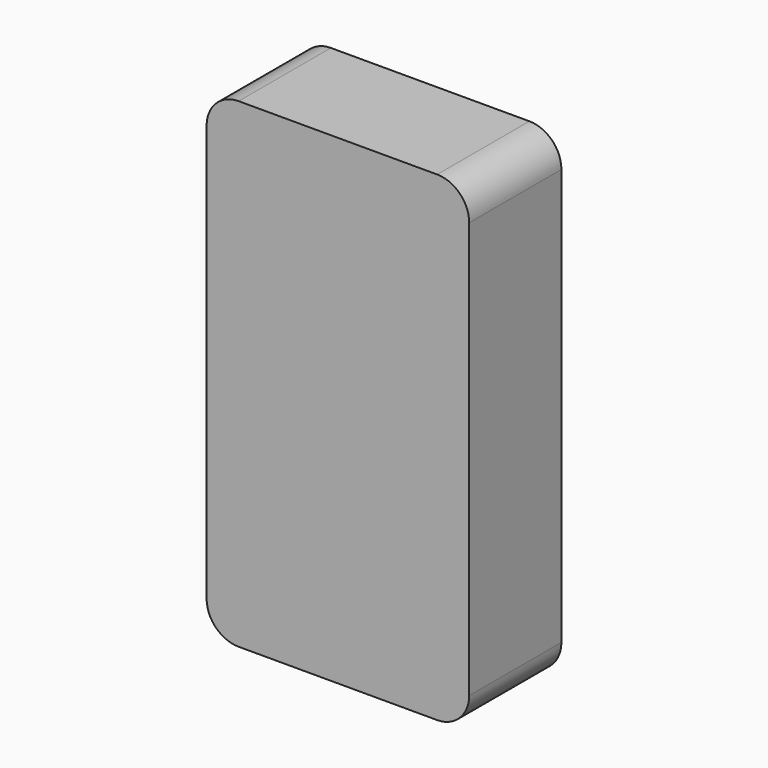
from build123d import *

# Parameters (mm, degrees)
BOX043_W                    = 5
BOX043_H                    = 5
BOX043_DEPTH                = 5
CYLINDER081_R               = 1.6
CYLINDER081_DEPTH           = 12
CYLINDER080_R               = 3.5
CYLINDER080_DEPTH           = 12
CYLINDER075_R               = 2.8
CYLINDER075_DEPTH           = 10
CYLINDER074_R               = 5.5
CYLINDER074_DEPTH           = 22
CYLINDER074_ROLL_ANGLE      = 90.312904
CYLINDER074_PITCH_ANGLE     = -60.355913
CYLINDER074_PLACEMENT_ANGLE = 179.461903
CYLINDER077_R               = 2.8
CYLINDER077_DEPTH           = 10
CYLINDER076_R               = 5.5
CYLINDER076_DEPTH           = 22
CYLINDER076_ROLL_ANGLE      = 90
CYLINDER076_PITCH_ANGLE     = -60
CYLINDER076_PLACEMENT_ANGLE = -180
CYLINDER079_R               = 2.8
CYLINDER079_DEPTH           = 10
CYLINDER078_R               = 5.5
CYLINDER078_DEPTH           = 22
CYLINDER078_ROLL_ANGLE      = 90
CYLINDER078_PITCH_ANGLE     = -60
CYLINDER078_PLACEMENT_ANGLE = -180
CYLINDER054_R               = 1.6
CYLINDER054_DEPTH           = 12
CYLINDER055_R               = 1.6
CYLINDER055_DEPTH           = 12
CYLINDER056_R               = 1.6
CYLINDER056_DEPTH           = 12
CYLINDER057_R               = 1.6
CYLINDER057_DEPTH           = 12
CYLINDER058_R               = 1.6
CYLINDER058_DEPTH           = 12
CYLINDER059_R               = 1.6
CYLINDER059_DEPTH           = 12
CYLINDER060_R               = 1.6
CYLINDER060_DEPTH           = 12
CYLINDER061_R               = 1.6
CYLINDER061_DEPTH           = 12
CYLINDER062_R               = 3.5
CYLINDER062_DEPTH           = 12
CYLINDER063_R               = 3.5
CYLINDER063_DEPTH           = 12
CYLINDER064_R               = 3.5
CYLINDER064_DEPTH           = 12
CYLINDER065_R               = 3.5
CYLINDER065_DEPTH           = 12
CYLINDER066_R               = 3.5
CYLINDER066_DEPTH           = 12
CYLINDER067_R               = 3.5
CYLINDER067_DEPTH           = 12
CYLINDER068_R               = 3.5
CYLINDER068_DEPTH           = 12
CYLINDER051_R               = 1.57
CYLINDER051_DEPTH           = 6
CYLINDER050_R               = 5.3
CYLINDER050_DEPTH           = 6
CYLINDER052_W               = 5.3
CYLINDER052_H               = 6
CYLINDER052_ANGLE           = 270
CYLINDER053_W               = 5.3
CYLINDER053_H               = 6
CYLINDER053_ANGLE           = 270
CYLINDER045_W               = 10
CYLINDER045_H               = 34
CYLINDER045_ANGLE           = 90
BOX035_W                    = 10
BOX035_H                    = 34
BOX035_DEPTH                = 10
CUT031_PLACEMENT_ANGLE      = 180
CYLINDER046_W               = 10
CYLINDER046_H               = 34
CYLINDER046_ANGLE           = 90
BOX036_W                    = 10
BOX036_H                    = 34
BOX036_DEPTH                = 10
CUT032_PLACEMENT_ANGLE      = 180
CYLINDER047_W               = 10
CYLINDER047_H               = 34
CYLINDER047_ANGLE           = 90
BOX037_W                    = 10
BOX037_H                    = 34
BOX037_DEPTH                = 10
CUT033_PITCH_ANGLE          = -90
CUT033_PLACEMENT_ANGLE      = 180
CYLINDER044_W               = 10
CYLINDER044_H               = 34
CYLINDER044_ANGLE           = 90
BOX033_W                    = 10
BOX033_H                    = 34
BOX033_DEPTH                = 10
CUT030_PITCH_ANGLE          = 90
CUT030_PLACEMENT_ANGLE      = -180
BOX034_W                    = 78
BOX034_H                    = 34
BOX034_DEPTH                = 146
CYLINDER041_W               = 10
CYLINDER041_H               = 36
CYLINDER041_ANGLE           = 90
BOX030_W                    = 10
BOX030_H                    = 36
BOX030_DEPTH                = 10
CUT026_PLACEMENT_ANGLE      = 180
CYLINDER042_W               = 10
CYLINDER042_H               = 36
CYLINDER042_ANGLE           = 90
BOX031_W                    = 10
BOX031_H                    = 36
BOX031_DEPTH                = 10
CUT027_PLACEMENT_ANGLE      = 180
CYLINDER043_W               = 10
CYLINDER043_H               = 36
CYLINDER043_ANGLE           = 90
BOX032_W                    = 10
BOX032_H                    = 36
BOX032_DEPTH                = 10
CUT028_PITCH_ANGLE          = -90
CUT028_PLACEMENT_ANGLE      = -180
CYLINDER040_W               = 10
CYLINDER040_H               = 36
CYLINDER040_ANGLE           = 90
BOX028_W                    = 10
BOX028_H                    = 36
BOX028_DEPTH                = 10
CUT025_PITCH_ANGLE          = 90
CUT025_PLACEMENT_ANGLE      = -180
BOX029_W                    = 82
BOX029_H                    = 36
BOX029_DEPTH                = 150
CUT035_PLACEMENT_ANGLE      = 180
CYLINDER048_R               = 1.57
CYLINDER048_DEPTH           = 6
CYLINDER049_R               = 5.3
CYLINDER049_DEPTH           = 6
CYLINDER069_R               = 3.5
CYLINDER069_DEPTH           = 12
CYLINDER073_R               = 2.8
CYLINDER073_DEPTH           = 10
CYLINDER072_R               = 5.5
CYLINDER072_DEPTH           = 22
CYLINDER072_ROLL_ANGLE      = 90
CYLINDER072_PITCH_ANGLE     = -60
CYLINDER072_PLACEMENT_ANGLE = -180


with BuildPart() as lightcut:
    # Box043 → Box043 (new body)
    with BuildSketch(Plane(origin=(54.5, -16, -6), x_dir=(1, 0, 0), z_dir=(0, 0, 1))):
        with Locations((2.5, 2.5)):
            Rectangle(BOX043_W, BOX043_H)
    extrude(amount=BOX043_DEPTH)


with BuildPart() as m2heatset009:
    # Cylinder081 → Cylinder081 (new body)
    with BuildSketch(Plane(origin=(8, -44, 67.1), x_dir=(1, 0, 0), z_dir=(0, 1, 0))):
        Circle(CYLINDER081_R)
    extrude(amount=CYLINDER081_DEPTH)


with BuildPart() as m2heatset010:
    # Cylinder080 → Cylinder080 (new body)
    with BuildSketch(Plane(origin=(8, -44, 67.1), x_dir=(1, 0, 0), z_dir=(0, 1, 0))):
        Circle(CYLINDER080_R)
    extrude(amount=CYLINDER080_DEPTH)

    # Cut043: cut m2HeatSet009
    add(m2heatset009.part, mode=Mode.SUBTRACT)


with BuildPart() as m4heatsetcut001:
    # Cylinder075 → Cylinder075 (new body)
    with BuildSketch(Plane(origin=(4.5, -32, 141.5), x_dir=(1, 0, 0), z_dir=(0, 1, 0))):
        Circle(CYLINDER075_R)
    extrude(amount=CYLINDER075_DEPTH)


with BuildPart() as m4heatsetholes001:
    # Cylinder074 → Cylinder074 (new body)
    with BuildSketch(Plane.XY):
        Circle(CYLINDER074_R)
    extrude(amount=CYLINDER074_DEPTH)


with BuildPart() as m4heatsetholes001_1:
    # Cylinder074 roll: moved
    add(m4heatsetholes001.part.rotate(Axis((0, 0, 0), (1, 0, 0)), CYLINDER074_ROLL_ANGLE))


with BuildPart() as m4heatsetholes001_2:
    # Cylinder074 pitch: moved
    add(m4heatsetholes001_1.part.rotate(Axis((0, 0, 0), (0, 1, 0)), CYLINDER074_PITCH_ANGLE))


with BuildPart() as m4heatsetholes001_3:
    # Cylinder074 placement: moved
    add(m4heatsetholes001_2.part.moved(Location((4.5, -44, 141.5))).rotate(Axis((4.5, -44, 141.5), (0, 0, 1)), CYLINDER074_PLACEMENT_ANGLE))

    # Cut040: cut m4HeatSetCut001
    add(m4heatsetcut001.part, mode=Mode.SUBTRACT)


with BuildPart() as m4heatsetholes001_4:
    # Cut040 placement: moved
    add(m4heatsetholes001_3.part.moved(Location((68.5, 0, -0.5))))


with BuildPart() as m4heatsetcut002:
    # Cylinder077 → Cylinder077 (new body)
    with BuildSketch(Plane(origin=(4.5, -32, 141.5), x_dir=(1, 0, 0), z_dir=(0, 1, 0))):
        Circle(CYLINDER077_R)
    extrude(amount=CYLINDER077_DEPTH)


with BuildPart() as m4heatsetholes002:
    # Cylinder076 → Cylinder076 (new body)
    with BuildSketch(Plane.XY):
        Circle(CYLINDER076_R)
    extrude(amount=CYLINDER076_DEPTH)


with BuildPart() as m4heatsetholes002_1:
    # Cylinder076 roll: moved
    add(m4heatsetholes002.part.rotate(Axis((0, 0, 0), (1, 0, 0)), CYLINDER076_ROLL_ANGLE))


with BuildPart() as m4heatsetholes002_2:
    # Cylinder076 pitch: moved
    add(m4heatsetholes002_1.part.rotate(Axis((0, 0, 0), (0, 1, 0)), CYLINDER076_PITCH_ANGLE))


with BuildPart() as m4heatsetholes002_3:
    # Cylinder076 placement: moved
    add(m4heatsetholes002_2.part.moved(Location((4.5, -44, 141.5))).rotate(Axis((4.5, -44, 141.5), (0, 0, 1)), CYLINDER076_PLACEMENT_ANGLE))

    # Cut041: cut m4HeatSetCut002
    add(m4heatsetcut002.part, mode=Mode.SUBTRACT)


with BuildPart() as m4heatsetholes002_4:
    # Cut041 placement: moved
    add(m4heatsetholes002_3.part.moved(Location((0.5, 0, -136.5))))


with BuildPart() as m4heatsetcut003:
    # Cylinder079 → Cylinder079 (new body)
    with BuildSketch(Plane(origin=(4.5, -32, 141.5), x_dir=(1, 0, 0), z_dir=(0, 1, 0))):
        Circle(CYLINDER079_R)
    extrude(amount=CYLINDER079_DEPTH)


with BuildPart() as m4heatsetholes003:
    # Cylinder078 → Cylinder078 (new body)
    with BuildSketch(Plane.XY):
        Circle(CYLINDER078_R)
    extrude(amount=CYLINDER078_DEPTH)


with BuildPart() as m4heatsetholes003_1:
    # Cylinder078 roll: moved
    add(m4heatsetholes003.part.rotate(Axis((0, 0, 0), (1, 0, 0)), CYLINDER078_ROLL_ANGLE))


with BuildPart() as m4heatsetholes003_2:
    # Cylinder078 pitch: moved
    add(m4heatsetholes003_1.part.rotate(Axis((0, 0, 0), (0, 1, 0)), CYLINDER078_PITCH_ANGLE))


with BuildPart() as m4heatsetholes003_3:
    # Cylinder078 placement: moved
    add(m4heatsetholes003_2.part.moved(Location((4.5, -44, 141.5))).rotate(Axis((4.5, -44, 141.5), (0, 0, 1)), CYLINDER078_PLACEMENT_ANGLE))

    # Cut042: cut m4HeatSetCut003
    add(m4heatsetcut003.part, mode=Mode.SUBTRACT)


with BuildPart() as m4heatsetholes003_4:
    # Cut042 placement: moved
    add(m4heatsetholes003_3.part.moved(Location((68.5, 0, -136.5))))


with BuildPart() as m2heatset001:
    # Cylinder054 → Cylinder054 (new body)
    with BuildSketch(Plane(origin=(8, -44, 67.1), x_dir=(1, 0, 0), z_dir=(0, 1, 0))):
        Circle(CYLINDER054_R)
    extrude(amount=CYLINDER054_DEPTH)


with BuildPart() as m2heatset002:
    # Cylinder055 → Cylinder055 (new body)
    with BuildSketch(Plane(origin=(28, -44, 67.1), x_dir=(1, 0, 0), z_dir=(0, 1, 0))):
        Circle(CYLINDER055_R)
    extrude(amount=CYLINDER055_DEPTH)


with BuildPart() as m2heatset003:
    # Cylinder056 → Cylinder056 (new body)
    with BuildSketch(Plane(origin=(68, -44, 67.1), x_dir=(1, 0, 0), z_dir=(0, 1, 0))):
        Circle(CYLINDER056_R)
    extrude(amount=CYLINDER056_DEPTH)


with BuildPart() as m2heatset004:
    # Cylinder057 → Cylinder057 (new body)
    with BuildSketch(Plane(origin=(18.2, -44, 97), x_dir=(1, 0, 0), z_dir=(0, 1, 0))):
        Circle(CYLINDER057_R)
    extrude(amount=CYLINDER057_DEPTH)


with BuildPart() as m2heatset005:
    # Cylinder058 → Cylinder058 (new body)
    with BuildSketch(Plane(origin=(28, -44, 87), x_dir=(1, 0, 0), z_dir=(0, 1, 0))):
        Circle(CYLINDER058_R)
    extrude(amount=CYLINDER058_DEPTH)


with BuildPart() as m2heatset006:
    # Cylinder059 → Cylinder059 (new body)
    with BuildSketch(Plane(origin=(38, -44, 117), x_dir=(1, 0, 0), z_dir=(0, 1, 0))):
        Circle(CYLINDER059_R)
    extrude(amount=CYLINDER059_DEPTH)


with BuildPart() as m2heatset007:
    # Cylinder060 → Cylinder060 (new body)
    with BuildSketch(Plane(origin=(38, -44, 57), x_dir=(1, 0, 0), z_dir=(0, 1, 0))):
        Circle(CYLINDER060_R)
    extrude(amount=CYLINDER060_DEPTH)


with BuildPart() as m2heatset008:
    # Cylinder061 → Cylinder061 (new body)
    with BuildSketch(Plane(origin=(68, -44, 107), x_dir=(1, 0, 0), z_dir=(0, 1, 0))):
        Circle(CYLINDER061_R)
    extrude(amount=CYLINDER061_DEPTH)


with BuildPart() as m2heatsetcuts:
    # Cylinder062 → Cylinder062 (new body)
    with BuildSketch(Plane(origin=(8, -44, 67.1), x_dir=(1, 0, 0), z_dir=(0, 1, 0))):
        Circle(CYLINDER062_R)
    extrude(amount=CYLINDER062_DEPTH)

    # Fusion021: union m2HeatSet001, m2HeatSet002, m2HeatSet003, m2HeatSet004, m2HeatSet005, m2HeatSet006, m2HeatSet007, m2HeatSet008
    add(m2heatset001.part)
    add(m2heatset002.part)
    add(m2heatset003.part)
    add(m2heatset004.part)
    add(m2heatset005.part)
    add(m2heatset006.part)
    add(m2heatset007.part)
    add(m2heatset008.part)


with BuildPart() as obj1:
    # Cylinder063 → Cylinder063 (new body)
    with BuildSketch(Plane(origin=(28, -44, 67.1), x_dir=(1, 0, 0), z_dir=(0, 1, 0))):
        Circle(CYLINDER063_R)
    extrude(amount=CYLINDER063_DEPTH)


with BuildPart() as obj2:
    # Cylinder064 → Cylinder064 (new body)
    with BuildSketch(Plane(origin=(18.2, -44, 97), x_dir=(1, 0, 0), z_dir=(0, 1, 0))):
        Circle(CYLINDER064_R)
    extrude(amount=CYLINDER064_DEPTH)


with BuildPart() as obj3:
    # Cylinder065 → Cylinder065 (new body)
    with BuildSketch(Plane(origin=(68, -44, 67.1), x_dir=(1, 0, 0), z_dir=(0, 1, 0))):
        Circle(CYLINDER065_R)
    extrude(amount=CYLINDER065_DEPTH)


with BuildPart() as obj4:
    # Cylinder066 → Cylinder066 (new body)
    with BuildSketch(Plane(origin=(28, -44, 87), x_dir=(1, 0, 0), z_dir=(0, 1, 0))):
        Circle(CYLINDER066_R)
    extrude(amount=CYLINDER066_DEPTH)


with BuildPart() as obj5:
    # Cylinder067 → Cylinder067 (new body)
    with BuildSketch(Plane(origin=(38, -44, 57), x_dir=(1, 0, 0), z_dir=(0, 1, 0))):
        Circle(CYLINDER067_R)
    extrude(amount=CYLINDER067_DEPTH)


with BuildPart() as obj6:
    # Cylinder068 → Cylinder068 (new body)
    with BuildSketch(Plane(origin=(68, -44, 107), x_dir=(1, 0, 0), z_dir=(0, 1, 0))):
        Circle(CYLINDER068_R)
    extrude(amount=CYLINDER068_DEPTH)


with BuildPart() as cylinder051:
    # Cylinder051 → Cylinder051 (new body)
    with BuildSketch(Plane(origin=(59.6, -44, 48.15), x_dir=(1, 0, 0), z_dir=(0, 1, 0))):
        Circle(CYLINDER051_R)
    extrude(amount=CYLINDER051_DEPTH)


with BuildPart() as cut037:
    # Cylinder050 → Cylinder050 (new body)
    with BuildSketch(Plane(origin=(62.1, -44, 50.65), x_dir=(0, 0, -1), z_dir=(0, 1, 0))):
        Circle(CYLINDER050_R)
    extrude(amount=CYLINDER050_DEPTH)

    # Cut037: cut Cylinder051
    add(cylinder051.part, mode=Mode.SUBTRACT)


with BuildPart() as cylinder052:
    # Cylinder052 → Cylinder052 (revolve)
    with BuildSketch(Plane(origin=(15, -38, 7.55), x_dir=(1, 0, 0), z_dir=(0, 0, 1))):
        with Locations((2.65, 3)):
            Rectangle(CYLINDER052_W, CYLINDER052_H)
    revolve(axis=Axis((15, -38, 7.55), (0, 1, 0)), revolution_arc=CYLINDER052_ANGLE)


with BuildPart() as cylinder053:
    # Cylinder053 → Cylinder053 (revolve)
    with BuildSketch(Plane(origin=(62.1, -38, 50.65), x_dir=(-1, 0, 0), z_dir=(0, 0, -1))):
        with Locations((2.65, 3)):
            Rectangle(CYLINDER053_W, CYLINDER053_H)
    revolve(axis=Axis((62.1, -38, 50.65), (0, 1, 0)), revolution_arc=CYLINDER053_ANGLE)


with BuildPart() as cylinder045:
    # Cylinder045 → Cylinder045 (revolve)
    with BuildSketch(Plane(origin=(0, 26, 0), x_dir=(1, 0, 0), z_dir=(0, 0, -1))):
        with Locations((5, 17)):
            Rectangle(CYLINDER045_W, CYLINDER045_H)
    revolve(axis=Axis((0, 26, 0), (0, -1, 0)), revolution_arc=CYLINDER045_ANGLE)


with BuildPart() as cut031:
    # Box035 → Box035 (new body)
    with BuildSketch(Plane(origin=(0, -8, 0), x_dir=(1, 0, 0), z_dir=(0, 0, 1))):
        with Locations((5, 17)):
            Rectangle(BOX035_W, BOX035_H)
    extrude(amount=BOX035_DEPTH)

    # Cut031: cut Cylinder045
    add(cylinder045.part, mode=Mode.SUBTRACT)


with BuildPart() as cut031_1:
    # Cut031 placement: moved
    add(cut031.part.moved(Location((70, 18, 8))).rotate(Axis((70, 18, 8), (1, 0, 0)), CUT031_PLACEMENT_ANGLE))


with BuildPart() as cylinder046:
    # Cylinder046 → Cylinder046 (revolve)
    with BuildSketch(Plane(origin=(0, 26, 0), x_dir=(1, 0, 0), z_dir=(0, 0, -1))):
        with Locations((5, 17)):
            Rectangle(CYLINDER046_W, CYLINDER046_H)
    revolve(axis=Axis((0, 26, 0), (0, -1, 0)), revolution_arc=CYLINDER046_ANGLE)


with BuildPart() as cut032:
    # Box036 → Box036 (new body)
    with BuildSketch(Plane(origin=(0, -8, 0), x_dir=(1, 0, 0), z_dir=(0, 0, 1))):
        with Locations((5, 17)):
            Rectangle(BOX036_W, BOX036_H)
    extrude(amount=BOX036_DEPTH)

    # Cut032: cut Cylinder046
    add(cylinder046.part, mode=Mode.SUBTRACT)


with BuildPart() as cut032_1:
    # Cut032 placement: moved
    add(cut032.part.moved(Location((12, 18, 134))).rotate(Axis((12, 18, 134), (0, 0, 1)), CUT032_PLACEMENT_ANGLE))


with BuildPart() as cylinder047:
    # Cylinder047 → Cylinder047 (revolve)
    with BuildSketch(Plane(origin=(0, 26, 0), x_dir=(1, 0, 0), z_dir=(0, 0, -1))):
        with Locations((5, 17)):
            Rectangle(CYLINDER047_W, CYLINDER047_H)
    revolve(axis=Axis((0, 26, 0), (0, -1, 0)), revolution_arc=CYLINDER047_ANGLE)


with BuildPart() as cut033:
    # Box037 → Box037 (new body)
    with BuildSketch(Plane(origin=(0, -8, 0), x_dir=(1, 0, 0), z_dir=(0, 0, 1))):
        with Locations((5, 17)):
            Rectangle(BOX037_W, BOX037_H)
    extrude(amount=BOX037_DEPTH)

    # Cut033: cut Cylinder047
    add(cylinder047.part, mode=Mode.SUBTRACT)


with BuildPart() as cut033_1:
    # Cut033 pitch: moved
    add(cut033.part.rotate(Axis((0, 0, 0), (0, 1, 0)), CUT033_PITCH_ANGLE))


with BuildPart() as cut033_2:
    # Cut033 placement: moved
    add(cut033_1.part.moved(Location((70, 18, 134))).rotate(Axis((70, 18, 134), (0, 0, 1)), CUT033_PLACEMENT_ANGLE))


with BuildPart() as cylinder044:
    # Cylinder044 → Cylinder044 (revolve)
    with BuildSketch(Plane(origin=(0, 26, 0), x_dir=(1, 0, 0), z_dir=(0, 0, -1))):
        with Locations((5, 17)):
            Rectangle(CYLINDER044_W, CYLINDER044_H)
    revolve(axis=Axis((0, 26, 0), (0, -1, 0)), revolution_arc=CYLINDER044_ANGLE)


with BuildPart() as fusion018:
    # Box033 → Box033 (new body)
    with BuildSketch(Plane(origin=(0, -8, 0), x_dir=(1, 0, 0), z_dir=(0, 0, 1))):
        with Locations((5, 17)):
            Rectangle(BOX033_W, BOX033_H)
    extrude(amount=BOX033_DEPTH)

    # Cut030: cut Cylinder044
    add(cylinder044.part, mode=Mode.SUBTRACT)


with BuildPart() as fusion018_1:
    # Cut030 pitch: moved
    add(fusion018.part.rotate(Axis((0, 0, 0), (0, 1, 0)), CUT030_PITCH_ANGLE))


with BuildPart() as fusion018_2:
    # Cut030 placement: moved
    add(fusion018_1.part.moved(Location((12, 18, 8))).rotate(Axis((12, 18, 8), (0, 0, 1)), CUT030_PLACEMENT_ANGLE))

    # Fusion018: union Cut031, Cut032, Cut033
    add(cut031_1.part)
    add(cut032_1.part)
    add(cut033_2.part)


with BuildPart() as obj7:
    # Box034 → Box034 (new body)
    with BuildSketch(Plane(origin=(80, 26, -2), x_dir=(-1, 0, 0), z_dir=(0, 0, 1))):
        with Locations((39, 17)):
            Rectangle(BOX034_W, BOX034_H)
    extrude(amount=BOX034_DEPTH)

    # Cut034: cut Fusion018
    add(fusion018_2.part, mode=Mode.SUBTRACT)


with BuildPart() as obj7_1:
    # Cut034 placement: moved
    add(obj7.part.moved(Location((-2, -2, 2))))


with BuildPart() as cylinder041:
    # Cylinder041 → Cylinder041 (revolve)
    with BuildSketch(Plane(origin=(0, 26, 0), x_dir=(1, 0, 0), z_dir=(0, 0, -1))):
        with Locations((5, 18)):
            Rectangle(CYLINDER041_W, CYLINDER041_H)
    revolve(axis=Axis((0, 26, 0), (0, -1, 0)), revolution_arc=CYLINDER041_ANGLE)


with BuildPart() as cut026:
    # Box030 → Box030 (new body)
    with BuildSketch(Plane(origin=(0, -10, 0), x_dir=(1, 0, 0), z_dir=(0, 0, 1))):
        with Locations((5, 18)):
            Rectangle(BOX030_W, BOX030_H)
    extrude(amount=BOX030_DEPTH)

    # Cut026: cut Cylinder041
    add(cylinder041.part, mode=Mode.SUBTRACT)


with BuildPart() as cut026_1:
    # Cut026 placement: moved
    add(cut026.part.moved(Location((70, 18, 8))).rotate(Axis((70, 18, 8), (1, 0, 0)), CUT026_PLACEMENT_ANGLE))


with BuildPart() as cylinder042:
    # Cylinder042 → Cylinder042 (revolve)
    with BuildSketch(Plane(origin=(0, 26, 0), x_dir=(1, 0, 0), z_dir=(0, 0, -1))):
        with Locations((5, 18)):
            Rectangle(CYLINDER042_W, CYLINDER042_H)
    revolve(axis=Axis((0, 26, 0), (0, -1, 0)), revolution_arc=CYLINDER042_ANGLE)


with BuildPart() as cut027:
    # Box031 → Box031 (new body)
    with BuildSketch(Plane(origin=(0, -10, 0), x_dir=(1, 0, 0), z_dir=(0, 0, 1))):
        with Locations((5, 18)):
            Rectangle(BOX031_W, BOX031_H)
    extrude(amount=BOX031_DEPTH)

    # Cut027: cut Cylinder042
    add(cylinder042.part, mode=Mode.SUBTRACT)


with BuildPart() as cut027_1:
    # Cut027 placement: moved
    add(cut027.part.moved(Location((8, 18, 138))).rotate(Axis((8, 18, 138), (0, 0, 1)), CUT027_PLACEMENT_ANGLE))


with BuildPart() as cylinder043:
    # Cylinder043 → Cylinder043 (revolve)
    with BuildSketch(Plane(origin=(0, 26, 0), x_dir=(1, 0, 0), z_dir=(0, 0, -1))):
        with Locations((5, 18)):
            Rectangle(CYLINDER043_W, CYLINDER043_H)
    revolve(axis=Axis((0, 26, 0), (0, -1, 0)), revolution_arc=CYLINDER043_ANGLE)


with BuildPart() as cut028:
    # Box032 → Box032 (new body)
    with BuildSketch(Plane(origin=(0, -10, 0), x_dir=(1, 0, 0), z_dir=(0, 0, 1))):
        with Locations((5, 18)):
            Rectangle(BOX032_W, BOX032_H)
    extrude(amount=BOX032_DEPTH)

    # Cut028: cut Cylinder043
    add(cylinder043.part, mode=Mode.SUBTRACT)


with BuildPart() as cut028_1:
    # Cut028 pitch: moved
    add(cut028.part.rotate(Axis((0, 0, 0), (0, 1, 0)), CUT028_PITCH_ANGLE))


with BuildPart() as cut028_2:
    # Cut028 placement: moved
    add(cut028_1.part.moved(Location((70, 18, 138))).rotate(Axis((70, 18, 138), (0, 0, 1)), CUT028_PLACEMENT_ANGLE))


with BuildPart() as cylinder040:
    # Cylinder040 → Cylinder040 (revolve)
    with BuildSketch(Plane(origin=(0, 26, 0), x_dir=(1, 0, 0), z_dir=(0, 0, -1))):
        with Locations((5, 18)):
            Rectangle(CYLINDER040_W, CYLINDER040_H)
    revolve(axis=Axis((0, 26, 0), (0, -1, 0)), revolution_arc=CYLINDER040_ANGLE)


with BuildPart() as fusion017:
    # Box028 → Box028 (new body)
    with BuildSketch(Plane(origin=(0, -10, 0), x_dir=(1, 0, 0), z_dir=(0, 0, 1))):
        with Locations((5, 18)):
            Rectangle(BOX028_W, BOX028_H)
    extrude(amount=BOX028_DEPTH)

    # Cut025: cut Cylinder040
    add(cylinder040.part, mode=Mode.SUBTRACT)


with BuildPart() as fusion017_1:
    # Cut025 pitch: moved
    add(fusion017.part.rotate(Axis((0, 0, 0), (0, 1, 0)), CUT025_PITCH_ANGLE))


with BuildPart() as fusion017_2:
    # Cut025 placement: moved
    add(fusion017_1.part.moved(Location((8, 18, 8))).rotate(Axis((8, 18, 8), (0, 0, 1)), CUT025_PLACEMENT_ANGLE))

    # Fusion017: union Cut026, Cut027, Cut028
    add(cut026_1.part)
    add(cut027_1.part)
    add(cut028_2.part)


with BuildPart() as fusion017_3:
    # Fusion017 placement: moved
    add(fusion017_2.part.moved(Location((0, -2, 0))))


with BuildPart() as basetop:
    # Box029 → Box029 (new body)
    with BuildSketch(Plane(origin=(80, 26, -2), x_dir=(-1, 0, 0), z_dir=(0, 0, 1))):
        with Locations((41, 18)):
            Rectangle(BOX029_W, BOX029_H)
    extrude(amount=BOX029_DEPTH)

    # Cut029: cut Fusion017
    add(fusion017_3.part, mode=Mode.SUBTRACT)

    # Cut035: cut obj7
    add(obj7_1.part, mode=Mode.SUBTRACT)


with BuildPart() as basetop_1:
    # Cut035 placement: moved
    add(basetop.part.moved(Location((78, -20, 0))).rotate(Axis((78, -20, 0), (0, 0, 1)), CUT035_PLACEMENT_ANGLE))


with BuildPart() as cylinder048:
    # Cylinder048 → Cylinder048 (new body)
    with BuildSketch(Plane(origin=(17.5, -44, 10.05), x_dir=(1, 0, 0), z_dir=(0, 1, 0))):
        Circle(CYLINDER048_R)
    extrude(amount=CYLINDER048_DEPTH)


with BuildPart() as basetop001:
    # Cylinder049 → Cylinder049 (new body)
    with BuildSketch(Plane(origin=(15, -44, 7.55), x_dir=(0, 0, 1), z_dir=(0, 1, 0))):
        Circle(CYLINDER049_R)
    extrude(amount=CYLINDER049_DEPTH)

    # Cut036: cut Cylinder048
    add(cylinder048.part, mode=Mode.SUBTRACT)

    # Fusion019: union Cut037, Cylinder052, Cylinder053, baseTop
    add(cut037.part)
    add(cylinder052.part)
    add(cylinder053.part)
    add(basetop_1.part)


with BuildPart() as basetop003:
    # Cylinder069 → Cylinder069 (new body)
    with BuildSketch(Plane(origin=(38, -44, 117), x_dir=(1, 0, 0), z_dir=(0, 1, 0))):
        Circle(CYLINDER069_R)
    extrude(amount=CYLINDER069_DEPTH)

    # Fusion020: union obj1, obj2, obj3, obj4, obj5, obj6, baseTop001
    add(obj1.part)
    add(obj2.part)
    add(obj3.part)
    add(obj4.part)
    add(obj5.part)
    add(obj6.part)
    add(basetop001.part)

    # Cut038: cut m2HeatSetCuts
    add(m2heatsetcuts.part, mode=Mode.SUBTRACT)


with BuildPart() as m4heatsetcut:
    # Cylinder073 → Cylinder073 (new body)
    with BuildSketch(Plane(origin=(4.5, -32, 141.5), x_dir=(1, 0, 0), z_dir=(0, 1, 0))):
        Circle(CYLINDER073_R)
    extrude(amount=CYLINDER073_DEPTH)


with BuildPart() as basetop006:
    # Cylinder072 → Cylinder072 (new body)
    with BuildSketch(Plane.XY):
        Circle(CYLINDER072_R)
    extrude(amount=CYLINDER072_DEPTH)


with BuildPart() as basetop006_1:
    # Cylinder072 roll: moved
    add(basetop006.part.rotate(Axis((0, 0, 0), (1, 0, 0)), CYLINDER072_ROLL_ANGLE))


with BuildPart() as basetop006_2:
    # Cylinder072 pitch: moved
    add(basetop006_1.part.rotate(Axis((0, 0, 0), (0, 1, 0)), CYLINDER072_PITCH_ANGLE))


with BuildPart() as basetop006_3:
    # Cylinder072 placement: moved
    add(basetop006_2.part.moved(Location((4.5, -44, 141.5))).rotate(Axis((4.5, -44, 141.5), (0, 0, 1)), CYLINDER072_PLACEMENT_ANGLE))

    # Cut039: cut m4HeatSetCut
    add(m4heatsetcut.part, mode=Mode.SUBTRACT)


with BuildPart() as basetop006_4:
    # Cut039 placement: moved
    add(basetop006_3.part.moved(Location((0.5, 0, -0.5))))

    # Fusion023: union m4HeatSetHoles001, m4HeatSetHoles002, m4HeatSetHoles003, baseTop003
    add(m4heatsetholes001_4.part)
    add(m4heatsetholes002_4.part)
    add(m4heatsetholes003_4.part)
    add(basetop003.part)

    # Fusion024: union m2HeatSet010
    add(m2heatset010.part)

    # Cut052: cut lightCut
    add(lightcut.part, mode=Mode.SUBTRACT)


solid = basetop006_4.part
